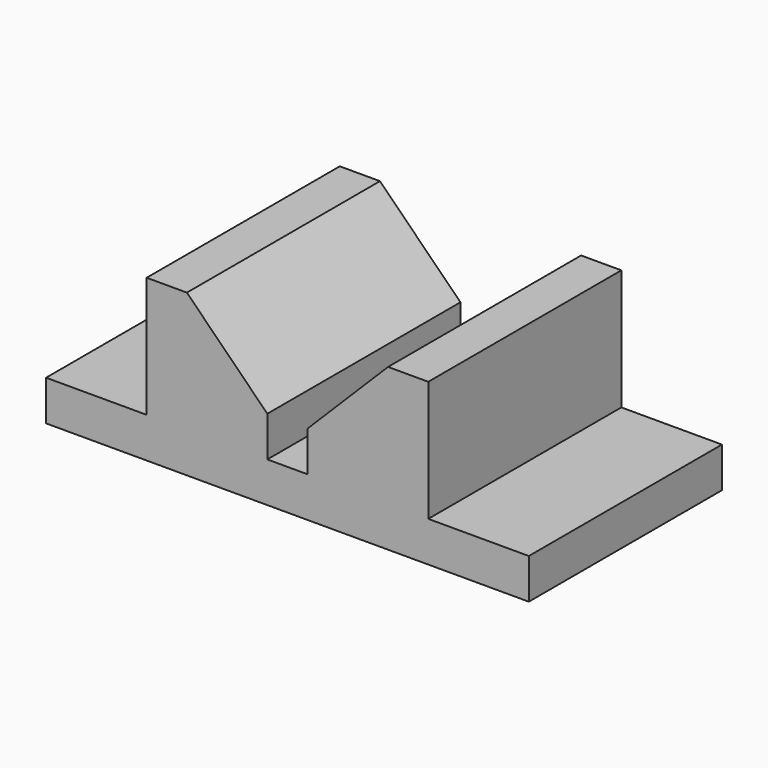
from build123d import *

# Parameters (mm, degrees)
F0_W     = 152.4
F0_H     = 50.8
F1_DEPTH = 76.2
F2_W     = 31.75
F2_H     = 38.1
F3_DEPTH = 76.2


with BuildPart() as f1:
    # F0 (on Front) → F1 (new body)
    with BuildSketch(Plane.XZ):
        with Locations((76.2, 25.4)):
            Rectangle(F0_W, F0_H)
    extrude(amount=-F1_DEPTH)

    # F2 (on face) → F3 (cut)
    with BuildSketch(Plane.XZ):
        with Locations((15.875, 31.75)):
            Rectangle(F2_W, F2_H)
        Polygon((69.85, 25.4), (69.85, 12.7), (82.55, 12.7), (82.55, 25.4), (107.95, 50.8), (44.45, 50.8), align=None)
        with Locations((136.525, 31.75)):
            Rectangle(F2_W, F2_H)
    extrude(amount=-F3_DEPTH, mode=Mode.SUBTRACT)


solid = f1.part
